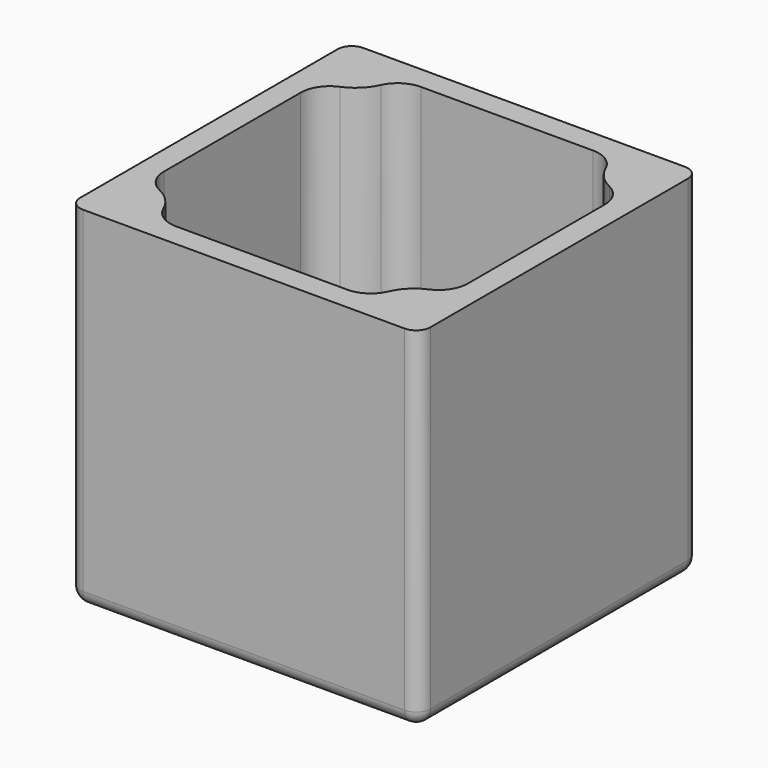
from build123d import *

# Parameters (mm, degrees)
F0_W      = 38.1
F0_H      = 38.1
F1_DEPTH  = 38.1
F2_T      = -2.54
F4_D      = 6.35
F5_R      = 1.55575
F7_DEPTH  = 35.56
F8_R      = 3.175
F9_R      = 3.175
F10_DEPTH = 38.101


with BuildPart() as f1:
    # F0 (on Top) → F1 (new body)
    with BuildSketch(Plane.XY):
        with Locations((8.3189541474, 5.4249440373)):
            Rectangle(F0_W, F0_H)
    extrude(amount=F1_DEPTH)

    # F2
    f2_openings = [f1.faces().sort_by_distance(p)[0] for p in [
        (8.318954, 5.424944, 38.1),
    ]]
    offset(amount=F2_T, openings=f2_openings)

    # F4 (through all)
    with Locations(Plane(origin=(0, 0, 0), x_dir=(1, 0, 0), z_dir=(0, 0, -1))):
        with Locations((8.3189541474, -5.4249440373)):
            Hole(F4_D / 2)

    # F5
    f5_edges = [f1.edges().sort_by_distance(p)[0] for p in [
        (8.318954, -13.625056, 0),
        (-10.731046, 5.424944, 0),
        (27.368954, 5.424944, 0),
        (8.318954, 24.474944, 0),
        (27.368954, 24.474944, 19.05),
        (27.368954, -13.625056, 19.05),
        (-10.731046, 24.474944, 19.05),
        (-10.731046, -13.625056, 19.05),
    ]]
    fillet(f5_edges, radius=F5_R)

    # F6 (on face) → F7 (join, through all)
    with BuildSketch(Plane.XY.offset(38.1)):
        with BuildLine():
            Line((24.8289541474, -11.0850559627), (24.8289541474, -6.3225559627))
            ThreePointArc((24.8289541474, -6.3225559627), (21.461358102, -7.7174599173), (20.0664541474, -11.0850559627))
            Line((20.0664541474, -11.0850559627), (24.8289541474, -11.0850559627))
        make_face()
        with BuildLine():
            Line((24.8289541474, 21.9349440373), (20.3255117221, 21.9349440373))
            ThreePointArc((20.3255117221, 21.9349440373), (21.6370716814, 18.6732811952), (24.8289541474, 17.2000126029))
            Line((24.8289541474, 17.2000126029), (24.8289541474, 21.9349440373))
        make_face()
        with BuildLine():
            Line((-8.1910458526, 21.9349440373), (-8.1910458526, 17.2900056063))
            ThreePointArc((-8.1910458526, 17.2900056063), (-4.797077777, 18.606071813), (-3.3241014455, 21.9349440373))
            Line((-3.3241014455, 21.9349440373), (-8.1910458526, 21.9349440373))
        make_face()
        with BuildLine():
            Line((-8.1910458526, -11.0850559627), (-3.6057208911, -11.0850559627))
            ThreePointArc((-3.6057208911, -11.0850559627), (-4.9295289639, -7.7640913608), (-8.1910458526, -6.2999256305))
            Line((-8.1910458526, -6.2999256305), (-8.1910458526, -11.0850559627))
        make_face()
    extrude(amount=-F7_DEPTH)

    # F8
    f8_edges = [f1.edges().sort_by_distance(p)[0] for p in [
        (24.828954, 17.200013, 20.32),
        (24.828954, 5.438728, 2.54),
        (21.637072, 18.673281, 2.54),
        (20.325512, 21.934944, 20.32),
        (8.500705, 21.934944, 2.54),
        (24.828954, -6.322556, 20.32),
        (21.461358, -7.71746, 2.54),
        (20.066454, -11.085056, 20.32),
        (8.230367, -11.085056, 2.54),
        (-4.929529, -7.764091, 2.54),
        (-8.191046, -6.299926, 20.32),
        (-3.605721, -11.085056, 20.32),
        (-4.797078, 18.606072, 2.54),
        (-8.191046, 17.290006, 20.32),
        (-8.191046, 5.49504, 2.54),
        (-3.324101, 21.934944, 20.32),
    ]]
    fillet(f8_edges, radius=F8_R)

    # F9 (on face) → F10 (cut, through all)
    with BuildSketch(Plane(origin=(0, 0, 0), x_dir=(1, 0, 0), z_dir=(0, 0, -1))):
        with Locations((14.6689541474, 0.9250559627)):
            Circle(F9_R)
    extrude(amount=-F10_DEPTH, mode=Mode.SUBTRACT)


solid = f1.part
